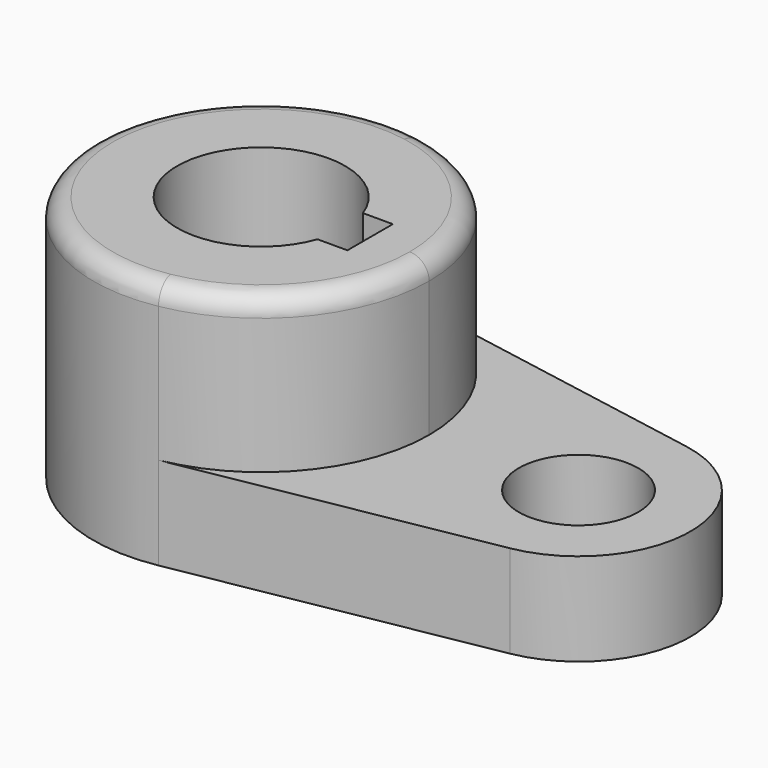
from build123d import *

# Parameters (mm, degrees)
F1_DEPTH = 0.621
F3_DEPTH = 1.037
F4_R     = 0.4
F5_DEPTH = 0.621
F7_DEPTH = 12.5
F8_R     = 0.13


with BuildPart() as f1:
    # F0 (on Top) → F1 (new body)
    with BuildSketch(Plane.XY):
        with BuildLine():
            Line((2.257353, 0.738229), (0.198529, 1.107344))
            ThreePointArc((0.198529, 1.107344), (-1.125, 0), (0.198529, -1.107344))
            Line((0.198529, -1.107344), (2.257353, -0.738229))
            ThreePointArc((2.257353, -0.738229), (2.875, 0), (2.257353, 0.738229))
        make_face()
    extrude(amount=F1_DEPTH)

    # F2 (on face) → F3 (join)
    with BuildSketch(Plane.XY.offset(0.621)):
        with BuildLine():
            ThreePointArc((0.198529, -1.107344), (0.862836, -0.7219), (1.125, 0))
            ThreePointArc((1.125, 0), (0.862836, 0.7219), (0.198529, 1.107344))
            ThreePointArc((0.198529, 1.107344), (-1.125, 0), (0.198529, -1.107344))
        make_face()
    extrude(amount=F3_DEPTH)

    # F4 (on face) → F5 (cut, through all)
    with BuildSketch(Plane.XY.offset(0.621)):
        with Locations((2.125, 0)):
            Circle(F4_R)
    extrude(amount=-F5_DEPTH, mode=Mode.SUBTRACT)

    # F6 (on face) → F7 (cut, symmetric)
    with BuildSketch(Plane.XY.offset(1.658)):
        with BuildLine():
            Line((0.7295, 0.19), (0.52944, 0.19))
            ThreePointArc((0.52944, 0.19), (-0.5625, 0), (0.52944, -0.19))
            Line((0.52944, -0.19), (0.7295, -0.19))
            Line((0.7295, -0.19), (0.7295, 0.19))
        make_face()
    extrude(amount=F7_DEPTH, both=True, mode=Mode.SUBTRACT)

    # F8
    f8_edges = [f1.edges().sort_by_distance(p)[0] for p in [
        (-0.198529, 1.107344, 1.658),
    ]]
    fillet(f8_edges, radius=F8_R)


solid = f1.part
